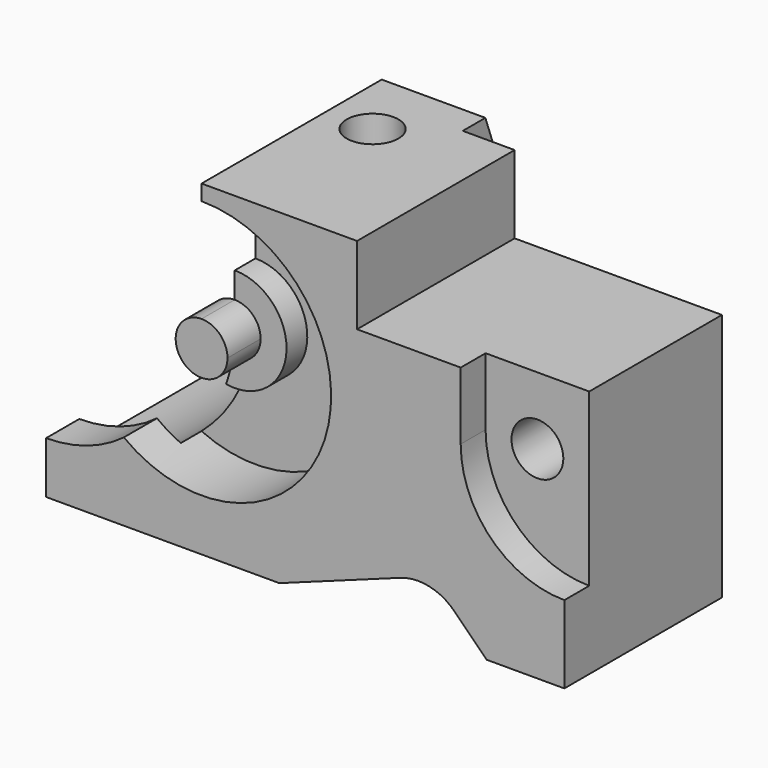
from build123d import *

# Parameters (mm, degrees)
F0_W      = 100
F0_H      = 63
F1_DEPTH  = 50
F2_W      = 40
F2_H      = 15
F3_DEPTH  = 50.001
F5_DEPTH  = 6
F6_R      = 5
F7_DEPTH  = 44.001
F8_R      = 25
F9_DEPTH  = 13
F10_R     = 10
F11_DEPTH = 5
F13_DEPTH = 42
F15_DEPTH = 50.001
F17_DEPTH = 8
F19_DEPTH = 63.001
F20_R     = 5
F21_DEPTH = 63.001
F23_DEPTH = 70.001


with BuildPart() as f1:
    # F0 (on Front) → F1 (new body)
    with BuildSketch(Plane.XZ):
        with Locations((50, 31.5)):
            Rectangle(F0_W, F0_H)
    extrude(amount=F1_DEPTH)

    # F2 (on face) → F3 (cut, through all)
    with BuildSketch(Plane.XZ.offset(50)):
        with Locations((80, 55.5)):
            Rectangle(F2_W, F2_H)
        with BuildLine():
            Line((45, 0), (85, 0))
            Line((85, 0), (78.8309201782, 6.1690798218))
            ThreePointArc((78.8309201782, 6.1690798218), (73.9242485057, 8.8609720811), (68.3396509331, 8.4949382178))
            Line((68.3396509331, 8.4949382178), (45, 0))
        make_face()
        with BuildLine():
            Line((45, 0), (85, 0))
            Line((85, 0), (78.8309201782, 6.1690798218))
            ThreePointArc((78.8309201782, 6.1690798218), (73.9242485057, 8.8609720811), (68.3396509331, 8.4949382178))
            Line((68.3396509331, 8.4949382178), (45, 0))
        make_face()
    extrude(amount=-F3_DEPTH, mode=Mode.SUBTRACT)

    # F4 (on face) → F5 (cut)
    with BuildSketch(Plane.XZ.offset(50)):
        with BuildLine():
            Line((100, 48), (84.8013158464, 48))
            ThreePointArc((84.8013158464, 48), (81.2386876382, 41.9291527956), (80, 35))
            Line((80, 35), (100, 35))
            Line((100, 35), (100, 48))
        make_face()
        with BuildLine():
            ThreePointArc((80, 35), (81.2386876382, 41.9291527956), (84.8013158464, 48))
            Line((84.8013158464, 48), (80, 48))
            Line((80, 48), (80, 35))
        make_face()
        with BuildLine():
            ThreePointArc((80, 35), (85.8578643763, 20.8578643763), (100, 15))
            Line((100, 15), (100, 35))
            Line((100, 35), (80, 35))
        make_face()
    extrude(amount=-F5_DEPTH, mode=Mode.SUBTRACT)

    # F6 (on face) → F7 (cut, through all)
    with BuildSketch(Plane.XZ.offset(44)):
        with Locations((90, 35)):
            Circle(F6_R)
    extrude(amount=-F7_DEPTH, mode=Mode.SUBTRACT)

    # F8 (on face) → F9 (cut)
    with BuildSketch(Plane.XZ.offset(50)):
        with Locations((30, 35)):
            Circle(F8_R)
    extrude(amount=-F9_DEPTH, mode=Mode.SUBTRACT)

    # F10 (on face) → F11 (join)
    with BuildSketch(Plane.XZ.offset(37)):
        with Locations((30, 35)):
            Circle(F10_R)
    extrude(amount=F11_DEPTH)

    # F12 (on face) → F13 (cut)
    with BuildSketch(Plane(origin=(0, 0, 0), x_dir=(-1, 0, 0), z_dir=(0, 1, 0))):
        with BuildLine():
            ThreePointArc((-30, 35), (-24.7296369608, 51.9836702684), (-10.7703296143, 63))
            Line((-10.7703296143, 63), (-30, 63))
            Line((-30, 63), (-30, 35))
        make_face()
        with BuildLine():
            Line((0, 63), (-10.7703296143, 63))
            ThreePointArc((-10.7703296143, 63), (-24.7296369608, 51.9836702684), (-30, 35))
            Line((-30, 35), (0, 35))
            Line((0, 35), (0, 63))
        make_face()
        with BuildLine():
            ThreePointArc((-30, 35), (-21.2132034356, 13.7867965644), (0, 5))
            Line((0, 5), (0, 35))
            Line((0, 35), (-30, 35))
        make_face()
    extrude(amount=-F13_DEPTH, mode=Mode.SUBTRACT)

    # F14 (on face) → F15 (cut, through all)
    with BuildSketch(Plane(origin=(0, 0, 0), x_dir=(-1, 0, 0), z_dir=(0, 1, 0))):
        with BuildLine():
            ThreePointArc((0, 10), (17.6776695297, 17.3223304703), (25, 35))
            ThreePointArc((25, 35), (17.6776695297, 52.6776695297), (0, 60))
            Line((0, 60), (0, 35))
            Line((0, 35), (0, 10))
        make_face()
        with BuildLine():
            Line((0, 35), (0, 60))
            ThreePointArc((0, 60), (-17.6776695297, 52.6776695297), (-25, 35))
            Line((-25, 35), (0, 35))
        make_face()
        with BuildLine():
            ThreePointArc((-25, 35), (-17.6776695297, 52.6776695297), (0, 60))
            Line((0, 60), (0, 63))
            Line((0, 63), (-30, 63))
            Line((-30, 63), (-30, 35))
            Line((-30, 35), (-25, 35))
        make_face()
        with BuildLine():
            ThreePointArc((-25, 35), (-17.6776695297, 17.3223304703), (0, 10))
            Line((0, 10), (0, 35))
            Line((0, 35), (-25, 35))
        make_face()
    extrude(amount=-F15_DEPTH, mode=Mode.SUBTRACT)

    # F16 (on face) → F17 (join, through all)
    with BuildSketch(Plane.XZ.offset(42)):
        with BuildLine():
            Line((30, 35), (30, 40))
            ThreePointArc((30, 40), (25.0043497313, 35.2085147299), (29.5833333333, 30.017391357))
            ThreePointArc((29.5833333333, 30.017391357), (29.8956518578, 32.5), (30, 35))
        make_face()
        with BuildLine():
            ThreePointArc((29.5833333333, 30.017391357), (33.3850160019, 31.320099639), (35, 35))
            ThreePointArc((35, 35), (33.5355339059, 38.5355339059), (30, 40))
            Line((30, 40), (30, 35))
            ThreePointArc((30, 35), (29.8956518578, 32.5), (29.5833333333, 30.017391357))
        make_face()
    extrude(amount=F17_DEPTH)

    # F18 (on face) → F19 (cut, through all)
    with BuildSketch(Plane.XY.offset(63)):
        Polygon((100, -12), (100, 0), (60, 0), (50, 0), (50, -12), align=None)
    extrude(amount=-F19_DEPTH, mode=Mode.SUBTRACT)

    # F20 (on face) → F21 (cut, through all)
    with BuildSketch(Plane.XY.offset(63)):
        with Locations((39, -20)):
            Circle(F20_R)
    extrude(amount=-F21_DEPTH, mode=Mode.SUBTRACT)

    # F22 (on face) → F23 (cut, through all)
    with BuildSketch(Plane(origin=(30, 0, 0), x_dir=(0, -1, 0), z_dir=(-1, 0, 0))):
        Polygon((6.5514642168, 63), (0, 63), (0, 45), align=None)
    extrude(amount=-F23_DEPTH, mode=Mode.SUBTRACT)


solid = f1.part
